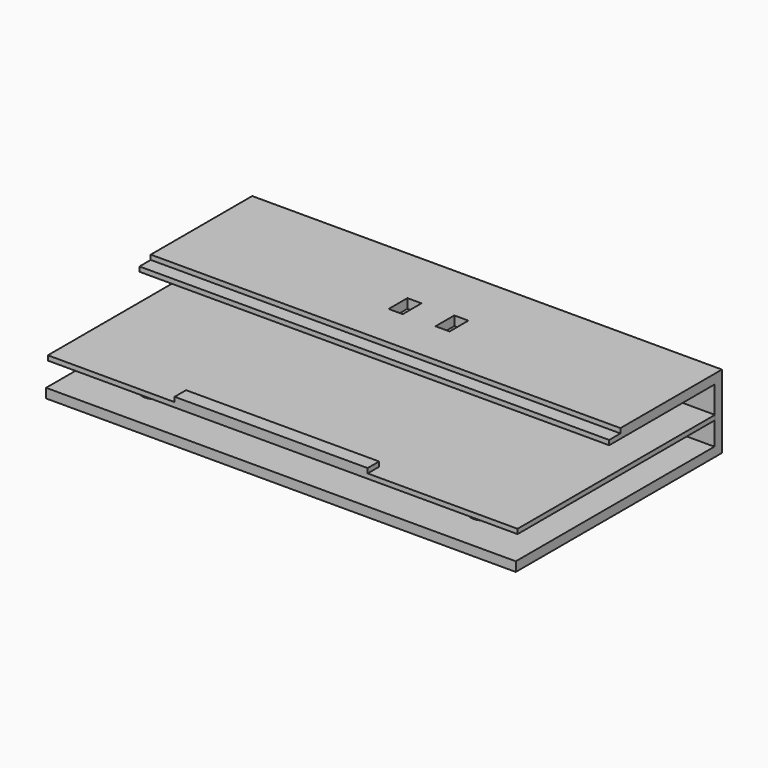
from build123d import *

# Parameters (mm, degrees)
F1_DEPTH  = 100
F2_W      = 100
F2_H      = 2
F3_DEPTH  = 25
F4_R      = 2.5
F5_DEPTH  = 5
F6_DEPTH  = 5
F7_W      = 3
F7_H      = 5
F8_DEPTH  = 2
F9_W      = 100
F9_H      = 1
F10_DEPTH = 3
F11_R     = 1
F12_DEPTH = 2
F13_W     = 41.0935450345
F13_H     = 3.0485875905
F14_DEPTH = 1
F15_DEPTH = 2


with BuildPart() as f1:
    # F0 (on Right) → F1 (new body)
    with BuildSketch(Plane.YZ):
        Polygon((0, 0), (-52.8542138636, 0), (-52.8542138636, -2), (2, -2), (2, 13.6397993192), (0, 13.6397993192), align=None)
    extrude(amount=F1_DEPTH)

    # F2 (on face) → F3 (join)
    with BuildSketch(Plane.XZ):
        with Locations((50, 12.6397993192)):
            Rectangle(F2_W, F2_H)
    extrude(amount=F3_DEPTH)

    # F4 (on face) → F5 (join)
    with BuildSketch(Plane.XY):
        with Locations((15, -42.8542138636)):
            Circle(F4_R)
    extrude(amount=F5_DEPTH)

    # F4 (on face) → F6 (join)
    with BuildSketch(Plane.XY):
        with Locations((15, -42.8542138636)):
            Circle(F4_R)
        with Locations((85, -42.8542138636)):
            Circle(F4_R)
        with Locations((15, -8)):
            Circle(F4_R)
        with Locations((85, -8)):
            Circle(F4_R)
    extrude(amount=F6_DEPTH)

    # F7 (on face) → F8 (cut, through all)
    with BuildSketch(Plane.XY.offset(13.6397993192)):
        with Locations((54.5849918723, -13.0749022961)):
            Rectangle(F7_W, F7_H)
        with Locations((44.6058220565, -13.0749022961)):
            Rectangle(F7_W, F7_H)
    extrude(amount=-F8_DEPTH, mode=Mode.SUBTRACT)

    # F9 (on face) → F10 (join)
    with BuildSketch(Plane.XZ.offset(25)):
        with Locations((50, 12.1397993192)):
            Rectangle(F9_W, F9_H)
    extrude(amount=F10_DEPTH)

    # F11 (on face) → F12 (cut, through all)
    with BuildSketch(Plane(origin=(0, 2, 0), x_dir=(-1, 0, 0), z_dir=(0, 1, 0))):
        with Locations((-69.4787353277, 8.7301367894)):
            Circle(F11_R)
        with Locations((-38.3921302855, 8.7301367894)):
            Circle(F11_R)
    extrude(amount=-F12_DEPTH, mode=Mode.SUBTRACT)

    # F13 (on face) → F14 (join)
    with BuildSketch(Plane.XY.offset(5)):
        Polygon((0.119697972, 0), (0.119697972, -52.5318421423), (27.1094348282, -52.5318421423), (27.1094348282, -49.4832545519), (68.2029798627, -49.4832545519), (68.2029798627, -52.5318421423), (100.119697972, -52.5318421423), (100.119697972, 0), align=None)
        with Locations((47.6562073454, -51.0075483471)):
            Rectangle(F13_W, F13_H)
    extrude(amount=F14_DEPTH)

    # F13 (on face) → F15 (join)
    with BuildSketch(Plane.XY.offset(5)):
        with Locations((47.6562073454, -51.0075483471)):
            Rectangle(F13_W, F13_H)
    extrude(amount=F15_DEPTH)


solid = f1.part
